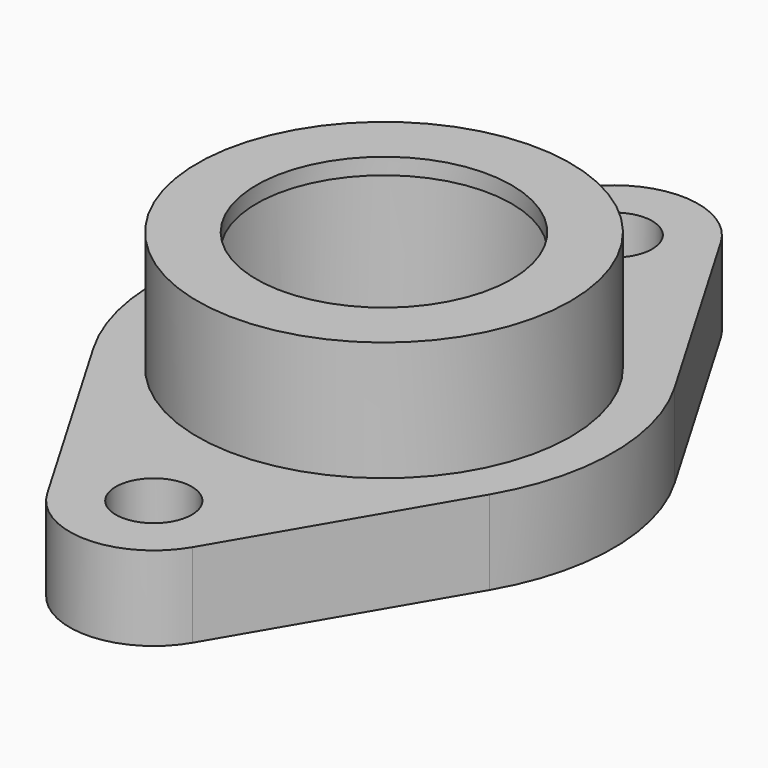
from build123d import *

# Parameters (mm, degrees)
F0_R     = 7.112
F0_R_2   = 23.876
F1_DEPTH = 15.748
F2_R     = 34.925
F2_R_2   = 23.876
F3_DEPTH = 22.352
F4_W     = 28.575
F4_H     = 32.004
F7_DEPTH = 43.9260001


with BuildPart() as f1:
    # F0 (on Top) → F1 (new body)
    with BuildSketch(Plane.XY):
        with BuildLine():
            Line((-13.5950101527, 61.7962830189), (-37.057366384, 21.6654811321))
            ThreePointArc((-37.057366384, 21.6654811321), (-42.926, 0), (-37.057366384, -21.6654811321))
            Line((-37.057366384, -21.6654811321), (-13.5950101527, -61.7962830189))
            ThreePointArc((-13.5950101527, -61.7962830189), (0, -69.596), (13.5950101527, -61.7962830189))
            Line((13.5950101527, -61.7962830189), (37.057366384, -21.6654811321))
            ThreePointArc((37.057366384, -21.6654811321), (42.926, 0), (37.057366384, 21.6654811321))
            Line((37.057366384, 21.6654811321), (13.5950101527, 61.7962830189))
            ThreePointArc((13.5950101527, 61.7962830189), (0, 69.596), (-13.5950101527, 61.7962830189))
        make_face()
        with Locations((0, -53.848)):
            Circle(F0_R, mode=Mode.SUBTRACT)
        Circle(F0_R_2, mode=Mode.SUBTRACT)
        with Locations((0, 53.848)):
            Circle(F0_R, mode=Mode.SUBTRACT)
    extrude(amount=-F1_DEPTH)

    # F2 (on Top) → F3 (join)
    with BuildSketch(Plane.XY):
        Circle(F2_R)
        Circle(F2_R_2, mode=Mode.SUBTRACT)
    extrude(amount=F3_DEPTH)

    # F4 (on Front) → F5 (revolve, cut)
    with BuildSketch(Plane.XZ):
        with Locations((14.2875, 3.302)):
            Rectangle(F4_W, F4_H)
    revolve(axis=Axis((0, 0, 3.302), (0, 0, 1)), mode=Mode.SUBTRACT)

    # F6 (on Right) → F7 (cut, up to face)
    with BuildSketch(Plane.YZ):
        with BuildLine():
            Line((9.652, -3.048), (-9.652, -3.048))
            ThreePointArc((-9.652, -3.048), (-14.478, -7.874), (-9.652, -12.7))
            Line((-9.652, -12.7), (9.652, -12.7))
            ThreePointArc((9.652, -12.7), (14.478, -7.874), (9.652, -3.048))
        make_face()
    extrude(amount=-F7_DEPTH, mode=Mode.SUBTRACT)


solid = f1.part
